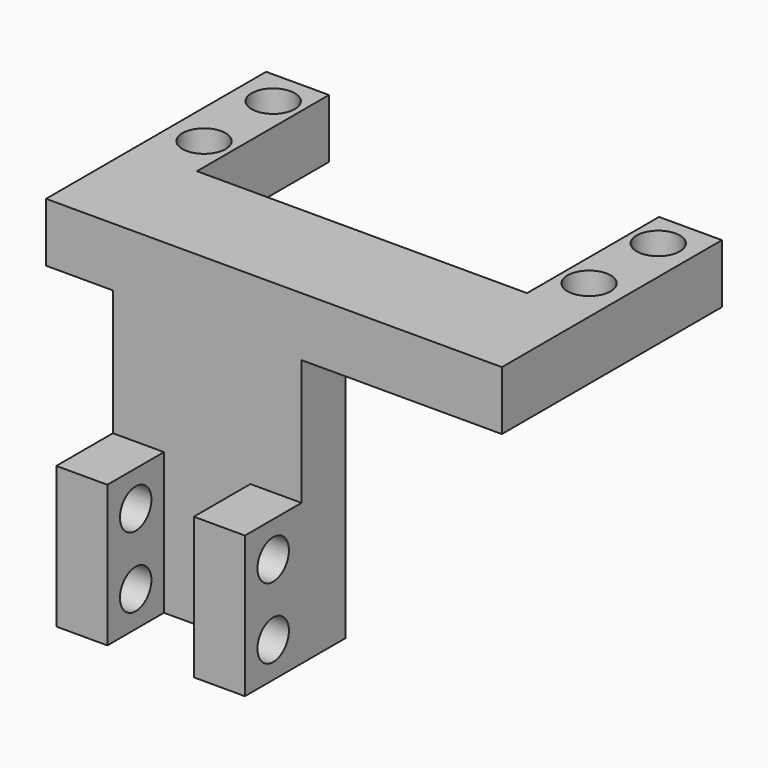
from build123d import *

# Parameters (mm, degrees)
CYLINDER005_R               = 2.5
CYLINDER005_DEPTH           = 27
CYLINDER005_PLACEMENT_ANGLE = 89.999981
CYLINDER004_R               = 2.5
CYLINDER004_DEPTH           = 27
CYLINDER004_PLACEMENT_ANGLE = 89.999981
BOX004_W                    = 6.5
BOX004_H                    = 9
BOX004_DEPTH                = 18
BOX003_W                    = 24
BOX003_H                    = 7
BOX003_DEPTH                = 34
BOX005_W                    = 6.5
BOX005_H                    = 9
BOX005_DEPTH                = 18
BOX_W                       = 42
BOX_H                       = 22
BOX_DEPTH                   = 18
CYLINDER001_R               = 2.75
CYLINDER001_DEPTH           = 18
CYLINDER002_R               = 2.75
CYLINDER002_DEPTH           = 18
CYLINDER003_R               = 2.75
CYLINDER003_DEPTH           = 18
CYLINDER_R                  = 2.75
CYLINDER_DEPTH              = 18
BOX002_W                    = 58
BOX002_H                    = 35
BOX002_DEPTH                = 7.5


with BuildPart() as cylinder005:
    # Cylinder005 → Cylinder005 (new body)
    with BuildSketch(Plane.XY):
        Circle(CYLINDER005_R)
    extrude(amount=CYLINDER005_DEPTH)


with BuildPart() as cylinder005_1:
    # Cylinder005 placement: moved
    add(cylinder005.part.moved(Location((-2, -19.5, -10))).rotate(Axis((-2, -19.5, -10), (0, 1, 0)), CYLINDER005_PLACEMENT_ANGLE))


with BuildPart() as fusion003:
    # Cylinder004 → Cylinder004 (new body)
    with BuildSketch(Plane.XY):
        Circle(CYLINDER004_R)
    extrude(amount=CYLINDER004_DEPTH)


with BuildPart() as fusion003_1:
    # Cylinder004 placement: moved
    add(fusion003.part.moved(Location((-2, -19.5, -19))).rotate(Axis((-2, -19.5, -19), (0, 1, 0)), CYLINDER004_PLACEMENT_ANGLE))

    # Fusion003: union Cylinder005
    add(cylinder005_1.part)


with BuildPart() as cube001:
    # Box004 → Box004 (new body)
    with BuildSketch(Plane(origin=(-0.5, -24, -23.5), x_dir=(1, 0, 0), z_dir=(0, 0, 1))):
        with Locations((3.25, 4.5)):
            Rectangle(BOX004_W, BOX004_H)
    extrude(amount=BOX004_DEPTH)


with BuildPart() as cube:
    # Box003 → Box003 (new body)
    with BuildSketch(Plane(origin=(-0.5, -15, -23.5), x_dir=(1, 0, 0), z_dir=(0, 0, 1))):
        with Locations((12, 3.5)):
            Rectangle(BOX003_W, BOX003_H)
    extrude(amount=BOX003_DEPTH)


with BuildPart() as module_hole_der:
    # Box005 → Box005 (new body)
    with BuildSketch(Plane(origin=(17, -24, -23.5), x_dir=(1, 0, 0), z_dir=(0, 0, 1))):
        with Locations((3.25, 4.5)):
            Rectangle(BOX005_W, BOX005_H)
    extrude(amount=BOX005_DEPTH)

    # Fusion002: union Cube001, Cube
    add(cube001.part)
    add(cube.part)

    # Cut001: cut Fusion003
    add(fusion003_1.part, mode=Mode.SUBTRACT)


with BuildPart() as servo_mold:
    # Box → Box (new body)
    with BuildSketch(Plane(origin=(-1, -1, 0), x_dir=(1, 0, 0), z_dir=(0, 0, 1))):
        with Locations((21, 11)):
            Rectangle(BOX_W, BOX_H)
    extrude(amount=BOX_DEPTH)


with BuildPart() as hole002:
    # Cylinder001 → Cylinder001 (new body)
    with BuildSketch(Plane(origin=(-4.5, 15.5, 0), x_dir=(1, 0, 0), z_dir=(0, 0, 1))):
        Circle(CYLINDER001_R)
    extrude(amount=CYLINDER001_DEPTH)


with BuildPart() as hole003:
    # Cylinder002 → Cylinder002 (new body)
    with BuildSketch(Plane(origin=(44.5, 4.5, 0), x_dir=(1, 0, 0), z_dir=(0, 0, 1))):
        Circle(CYLINDER002_R)
    extrude(amount=CYLINDER002_DEPTH)


with BuildPart() as hole004:
    # Cylinder003 → Cylinder003 (new body)
    with BuildSketch(Plane(origin=(44.5, 15.5, 0), x_dir=(1, 0, 0), z_dir=(0, 0, 1))):
        Circle(CYLINDER003_R)
    extrude(amount=CYLINDER003_DEPTH)


with BuildPart() as servo_object:
    # Cylinder → Cylinder (new body)
    with BuildSketch(Plane(origin=(-4.5, 4.5, 0), x_dir=(1, 0, 0), z_dir=(0, 0, 1))):
        Circle(CYLINDER_R)
    extrude(amount=CYLINDER_DEPTH)

    # Fusion: union Hole002, Hole003, Hole004
    add(hole002.part)
    add(hole003.part)
    add(hole004.part)

    # Fusion001: union Servo Mold
    add(servo_mold.part)


with BuildPart() as complete_arm_holder:
    # Box002 → Box002 (new body)
    with BuildSketch(Plane(origin=(-9, -15, 10.5), x_dir=(1, 0, 0), z_dir=(0, 0, 1))):
        with Locations((29, 17.5)):
            Rectangle(BOX002_W, BOX002_H)
    extrude(amount=BOX002_DEPTH)

    # Cut: cut Servo Object
    add(servo_object.part, mode=Mode.SUBTRACT)

    # Fusion004: union Module Hole-der
    add(module_hole_der.part)


solid = complete_arm_holder.part
